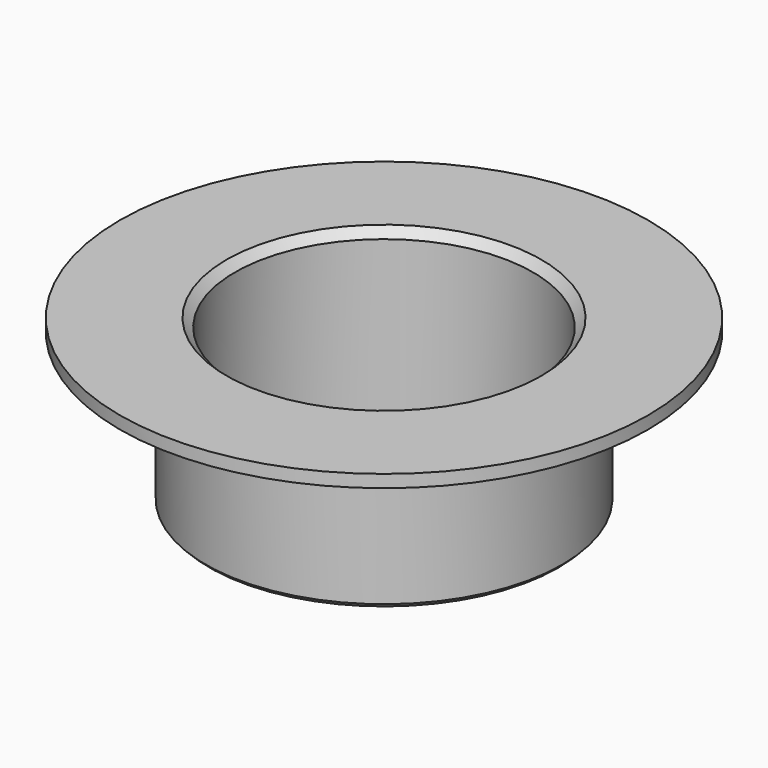
from build123d import *

# Parameters (mm, degrees)
F0_R     = 21.275
F0_R_2   = 17.775
F1_DEPTH = 17
F2_R     = 31.5
F2_R_2   = 17.775
F3_DEPTH = 2.5
F4_SIZE2 = 2.9
F4_SIZE  = 1
F5_SIZE  = 0.5
F6_SIZE  = 1


with BuildPart() as f1:
    # F0 (on Top) → F1 (new body)
    with BuildSketch(Plane.XY):
        Circle(F0_R)
        Circle(F0_R_2, mode=Mode.SUBTRACT)
    extrude(amount=F1_DEPTH)

    # F2 (on face) → F3 (join)
    with BuildSketch(Plane.XY.offset(17)):
        Circle(F2_R)
        Circle(F2_R_2, mode=Mode.SUBTRACT)
    extrude(amount=F3_DEPTH)

    # F4
    f4_edges = [f1.edges().sort_by_distance(p)[0] for p in [
        (-31.5, 0, 17),
    ]]
    f4_side = f1.faces().sort_by_distance((-31.5, 0, 18.25))[0]
    chamfer(f4_edges, length=F4_SIZE, length2=F4_SIZE2, reference=f4_side)

    # F5
    f5_edges = [f1.edges().sort_by_distance(p)[0] for p in [
        (-21.275, 0, 0),
    ]]
    chamfer(f5_edges, length=F5_SIZE)

    # F6
    f6_edges = [f1.edges().sort_by_distance(p)[0] for p in [
        (-17.775, 0, 19.5),
    ]]
    chamfer(f6_edges, length=F6_SIZE)


solid = f1.part
